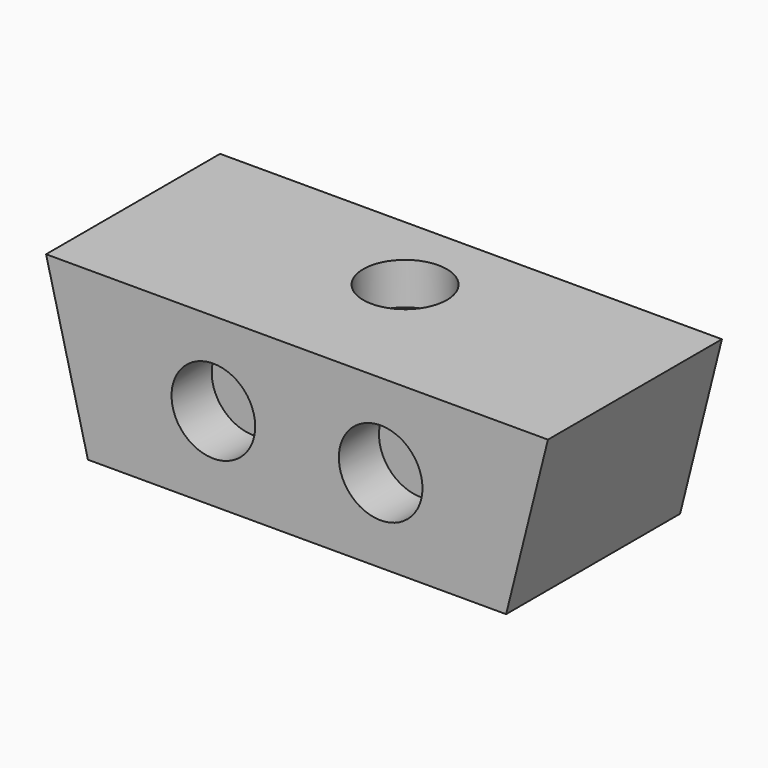
from build123d import *

# Parameters (mm, degrees)
F1_DEPTH = 100
F2_R     = 25
F3_DEPTH = 30
F4_R     = 25
F5_DEPTH = 25
F7_DEPTH = 30


with BuildPart() as f1:
    # F0 (on Front) → F1 (new body)
    with BuildSketch(Plane.XZ):
        Polygon((125, 50), (-125, 50), (-150, 50), (-125, -50), (125, -50), (150, 50), align=None)
    extrude(amount=-F1_DEPTH)

    # F2 (on face) → F3 (join)
    with BuildSketch(Plane.XZ):
        Polygon((125, -50), (150, 50), (-150, 50), (-125, -50), align=None)
        with Locations((-50, 0)):
            Circle(F2_R, mode=Mode.SUBTRACT)
        with BuildLine():
            ThreePointArc((25, 0), (50, 25), (75, 0))
            ThreePointArc((75, 0), (50, -25), (25, 0))
        make_face(mode=Mode.SUBTRACT)
    extrude(amount=F3_DEPTH)

    # F4 (on face) → F5 (cut)
    with BuildSketch(Plane.XY.offset(50)):
        with Locations((0, 50.720426)):
            Circle(F4_R)
    extrude(amount=-F5_DEPTH, mode=Mode.SUBTRACT)

    # F6 (on face) → F7 (cut)
    with BuildSketch(Plane(origin=(0, 100, 0), x_dir=(-1, 0, 0), z_dir=(0, 1, 0))):
        with BuildLine():
            Line((-25, -50), (0, -50))
            Line((0, -50), (25, -50))
            Line((25, -50), (25, -25))
            ThreePointArc((25, -25), (23.535534, -21.464466), (20, -20))
            Line((20, -20), (-20, -20))
            ThreePointArc((-20, -20), (-23.535534, -21.464466), (-25, -25))
            Line((-25, -25), (-25, -50))
        make_face()
    extrude(amount=-F7_DEPTH, mode=Mode.SUBTRACT)


solid = f1.part
